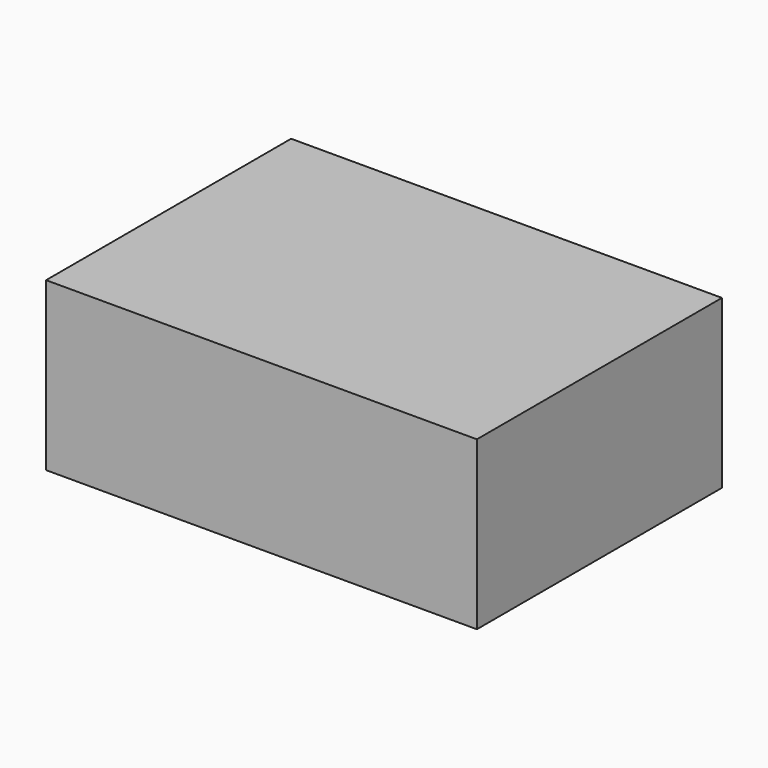
from build123d import *

# Parameters (mm, degrees)
CYLINDER004_R     = 1.1
CYLINDER004_DEPTH = 10
CYLINDER005_R     = 1.1
CYLINDER005_DEPTH = 10
SKETCH007_W       = 23.3
SKETCH007_H       = 12.5
PAD007_DEPTH      = 19.5
SKETCH005_W       = 32.5
SKETCH005_H       = 12.5
PAD006_DEPTH      = 4.5
SKETCH006_W       = 36.061928
SKETCH006_H       = 25.639376
PAD005_DEPTH      = 14


with BuildPart() as cylinder004:
    # Cylinder004 → Cylinder004 (new body)
    with BuildSketch(Plane(origin=(30, 22, 6), x_dir=(1, 0, 0), z_dir=(0, -1, 0))):
        Circle(CYLINDER004_R)
    extrude(amount=CYLINDER004_DEPTH)


with BuildPart() as obj1:
    # Cylinder005 → Cylinder005 (new body)
    with BuildSketch(Plane(origin=(2.2, 22, 6), x_dir=(1, 0, 0), z_dir=(0, -1, 0))):
        Circle(CYLINDER005_R)
    extrude(amount=CYLINDER005_DEPTH)

    # Fusion003: union Cylinder004
    add(cylinder004.part)


with BuildPart() as cortecuerpo001:
    # Sketch007 → Pad007 (new body)
    with BuildSketch(Plane.XZ):
        with Locations((16.4, 6.25)):
            Rectangle(SKETCH007_W, SKETCH007_H)
    extrude(amount=PAD007_DEPTH)


with BuildPart() as cortecuerpo001_1:
    # Body009 placement: moved
    add(cortecuerpo001.part.moved(Location((0, 19, 0))))


with BuildPart() as cortetornillos001:
    # Sketch005 → Pad006 (new body)
    with BuildSketch(Plane.XZ):
        with Locations((16.25, 6.25)):
            Rectangle(SKETCH005_W, SKETCH005_H)
    extrude(amount=PAD006_DEPTH)


with BuildPart() as cortetornillos001_1:
    # Body008 placement: moved
    add(cortetornillos001.part.moved(Location((0, 23, 0))))


with BuildPart() as obj2:
    # Sketch006 → Pad005 (new body)
    with BuildSketch(Plane.XY):
        with Locations((15.881367, 9.413649)):
            Rectangle(SKETCH006_W, SKETCH006_H)
    extrude(amount=PAD005_DEPTH)


with BuildPart() as obj2_1:
    # Body007 placement: moved
    add(obj2.part.moved(Location((0, 0, -1))))

    # Cut003: cut CorteTornillos001
    add(cortetornillos001_1.part, mode=Mode.SUBTRACT)

    # Cut004: cut CorteCuerpo001
    add(cortecuerpo001_1.part, mode=Mode.SUBTRACT)

    # Cut005: cut obj1
    add(obj1.part, mode=Mode.SUBTRACT)


solid = obj2_1.part
